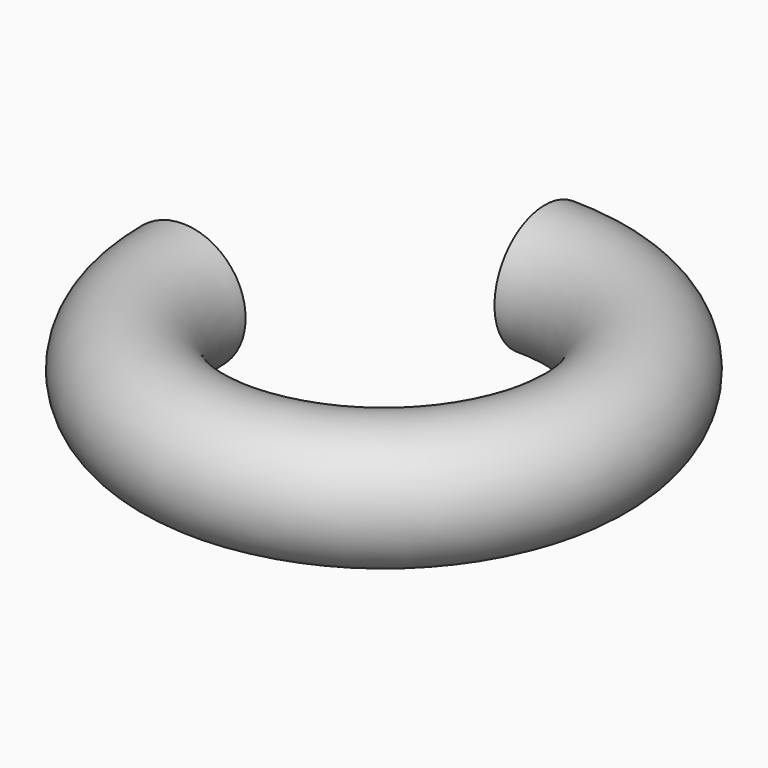
from build123d import *

# Parameters (mm, degrees)
F0_R     = 10
F1_ANGLE = 270


with BuildPart() as f1:
    # F0 (on Right) → F1 (revolve)
    with BuildSketch(Plane.YZ):
        with Locations((32, 0)):
            Circle(F0_R)
    revolve(axis=Axis((0, 0, 4.303278), (0, 0, -1)), revolution_arc=F1_ANGLE)


solid = f1.part
